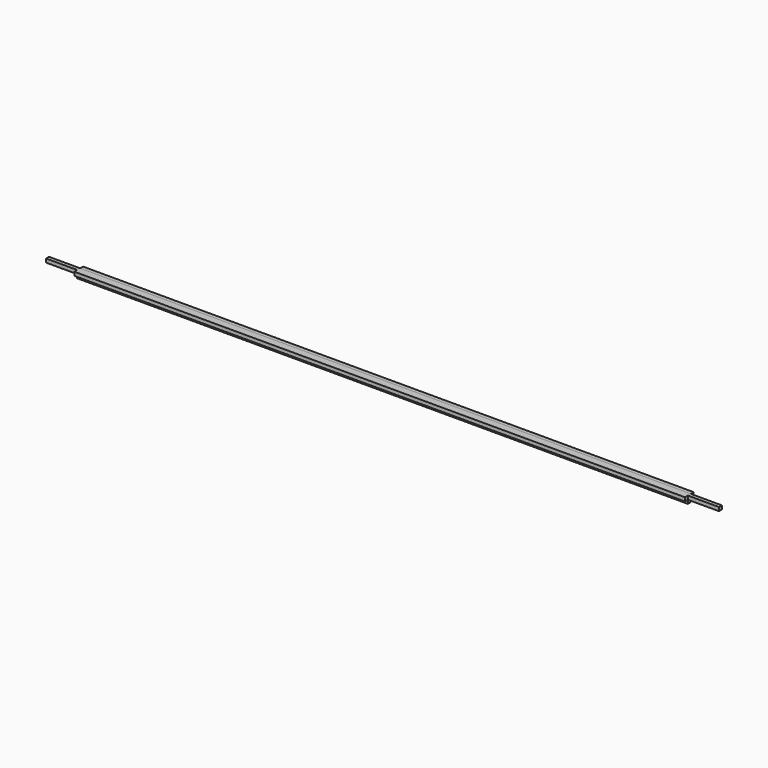
from build123d import *

# Parameters (mm, degrees)
F0_W     = 549
F0_H     = 3
F1_DEPTH = 3
F2_W     = 498.1956
F2_H     = 3
F3_DEPTH = 3
F4_W     = 498.1956
F4_H     = 3
F5_DEPTH = 3
F6_W     = 498.1956
F6_H     = 3
F7_DEPTH = 3


with BuildPart() as f1:
    # F0 (on Top) → F1 (new body)
    with BuildSketch(Plane.XY):
        with Locations((-44.029893, -150.890153)):
            Rectangle(F0_W, F0_H)
    extrude(amount=F1_DEPTH)

    # F2 (on Top) → F3 (join)
    with BuildSketch(Plane.XY):
        with Locations((-44.032093, -153.890153)):
            Rectangle(F2_W, F2_H)
    extrude(amount=F3_DEPTH)


with BuildPart() as f5:
    # F4 (on Top) → F5 (new body)
    with BuildSketch(Plane.XY):
        with Locations((-44.027693, -147.890153)):
            Rectangle(F4_W, F4_H)
    extrude(amount=F5_DEPTH)


with BuildPart() as f7:
    # F6 (on Top) → F7 (new body)
    with BuildSketch(Plane.XY):
        with Locations((-44.032093, -150.890153)):
            Rectangle(F6_W, F6_H)
    extrude(amount=-F7_DEPTH)


solid = Compound([f1.part, f5.part, f7.part])
